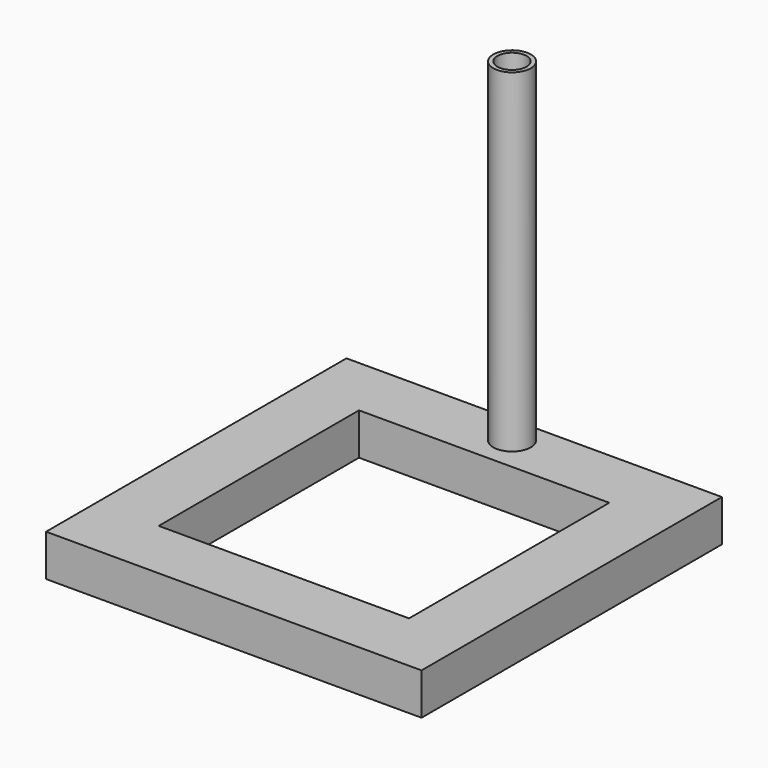
from build123d import *

# Parameters (mm, degrees)
F0_W     = 90
F0_H     = 90
F1_DEPTH = 10
F2_W     = 60
F2_H     = 60
F3_DEPTH = 10
F4_R     = 4.5
F5_DEPTH = 80
F6_T     = -1


with BuildPart() as f1:
    # F0 (on Top) → F1 (new body)
    with BuildSketch(Plane.XY):
        Rectangle(F0_W, F0_H)
    extrude(amount=F1_DEPTH)

    # F2 (on face) → F3 (cut)
    with BuildSketch(Plane.XY.offset(10)):
        Rectangle(F2_W, F2_H)
    extrude(amount=-F3_DEPTH, mode=Mode.SUBTRACT)

    # F4 (on face) → F5 (join)
    with BuildSketch(Plane.XY.offset(10)):
        with Locations((0, 38.3668020368)):
            Circle(F4_R)
    extrude(amount=F5_DEPTH)

    # F6
    f6_openings = [f1.faces().sort_by_distance(p)[0] for p in [
        (0, 38.366802, 90),
    ]]
    offset(amount=F6_T, openings=f6_openings, kind=Kind.INTERSECTION)


solid = f1.part
